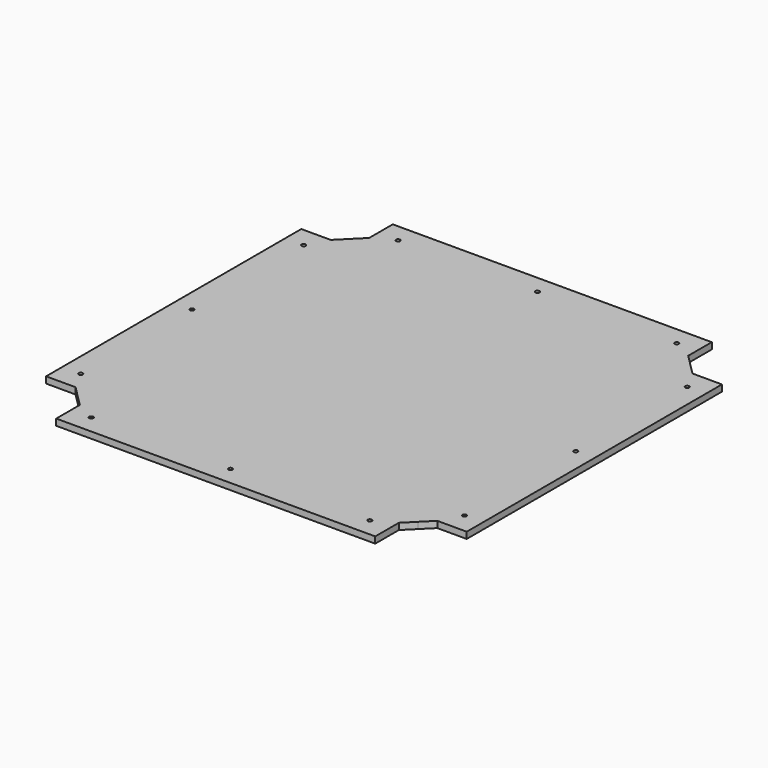
from build123d import *

# Parameters (mm, degrees)
F0_R     = 2.01
F1_DEPTH = 6.35


with BuildPart() as f1:
    # F0 (on Top) → F1 (new body)
    with BuildSketch(Plane.XY):
        Polygon((-158, 208.35), (-158, 194.175), (-158, 179.1715728753), (-168.5857864376, 168.5857864376), (-179.1715728753, 158), (-194.175, 158), (-208.35, 158), (-208.35, -158), (-194.175, -158), (-179.1715728753, -158), (-168.5857864376, -168.5857864376), (-158, -179.1715728753), (-158, -194.175), (-158, -208.35), (158, -208.35), (158, -194.175), (158, -179.1715728753), (168.5857864376, -168.5857864376), (179.1715728753, -158), (194.175, -158), (208.35, -158), (208.35, 158), (194.175, 158), (179.1715728753, 158), (168.5857864376, 168.5857864376), (158, 179.1715728753), (158, 194.175), (158, 208.35), align=None)
        with Locations((-138, -190)):
            Circle(F0_R, mode=Mode.SUBTRACT)
        with Locations((-190, -138)):
            Circle(F0_R, mode=Mode.SUBTRACT)
        with Locations((0, -190)):
            Circle(F0_R, mode=Mode.SUBTRACT)
        with Locations((138, -190)):
            Circle(F0_R, mode=Mode.SUBTRACT)
        with Locations((190, -138)):
            Circle(F0_R, mode=Mode.SUBTRACT)
        with Locations((-190, 0)):
            Circle(F0_R, mode=Mode.SUBTRACT)
        with Locations((-190, 138)):
            Circle(F0_R, mode=Mode.SUBTRACT)
        with Locations((-138, 190)):
            Circle(F0_R, mode=Mode.SUBTRACT)
        with Locations((190, 0)):
            Circle(F0_R, mode=Mode.SUBTRACT)
        with Locations((0, 190)):
            Circle(F0_R, mode=Mode.SUBTRACT)
        with Locations((190, 138)):
            Circle(F0_R, mode=Mode.SUBTRACT)
        with Locations((138, 190)):
            Circle(F0_R, mode=Mode.SUBTRACT)
    extrude(amount=F1_DEPTH)


solid = f1.part
